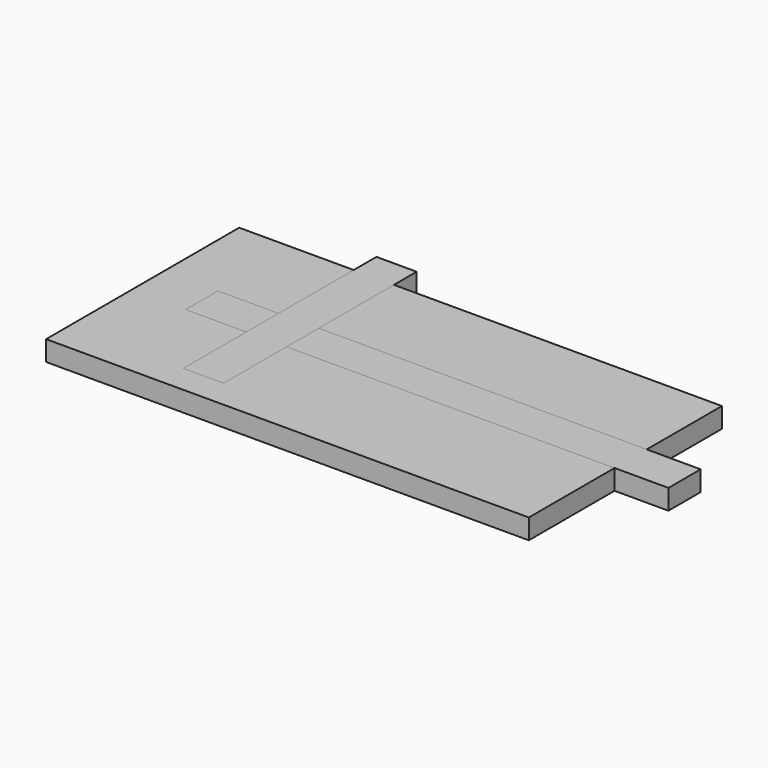
from build123d import *

# Parameters (mm, degrees)
F0_W     = 152.4
F0_H     = 76.2
F1_DEPTH = 6.35
F2_W     = 152.4
F2_H     = 12.7
F3_DEPTH = 6.35
F4_W     = 12.7
F4_H     = 76.2
F5_DEPTH = 6.35


with BuildPart() as f1:
    # F0 (on Top) → F1 (new body)
    with BuildSketch(Plane.XY):
        with Locations((-11.401173, 31.987291)):
            Rectangle(F0_W, F0_H)
    extrude(amount=F1_DEPTH)


with BuildPart() as f3:
    # F2 (on Top) → F3 (new body)
    with BuildSketch(Plane.XY):
        with Locations((5.611584, 34.065676)):
            Rectangle(F2_W, F2_H)
    extrude(amount=F3_DEPTH)


with BuildPart() as f5:
    # F4 (on Top) → F5 (new body)
    with BuildSketch(Plane.XY):
        with Locations((-45.093002, 40.956691)):
            Rectangle(F4_W, F4_H)
    extrude(amount=F5_DEPTH)


solid = Compound([f1.part, f3.part, f5.part])
